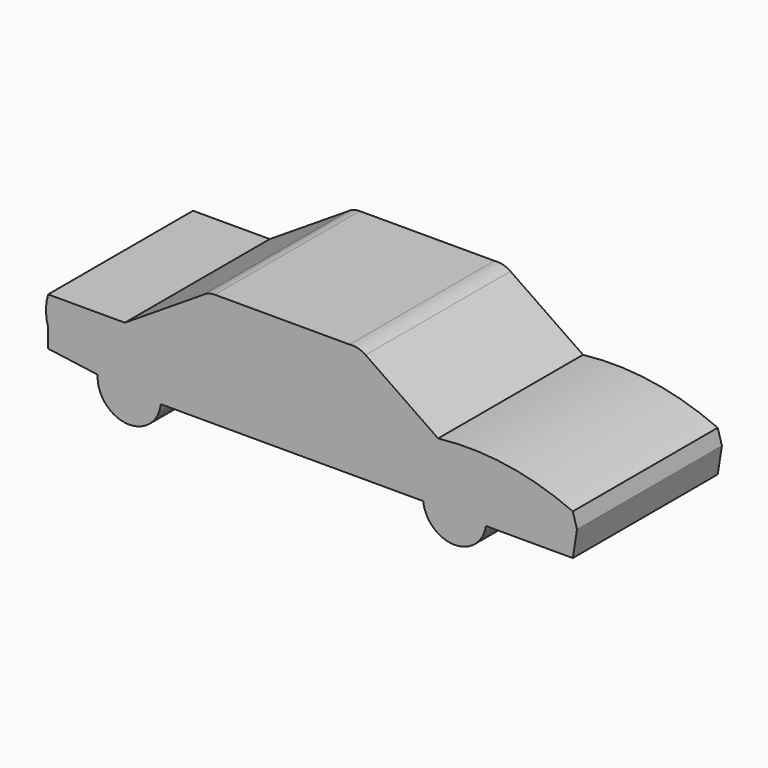
from build123d import *

# Parameters (mm, degrees)
F1_DEPTH = 33


with BuildPart() as f1:
    # F0 (on Front) → F1 (new body)
    with BuildSketch(Plane.XZ):
        with BuildLine():
            Line((0, 0), (53.250462, 0))
            Line((53.250462, 0), (26.834896, 18.175164))
            ThreePointArc((26.834896, 18.175164), (24.032478, 19.439506), (20.964772, 19.642696))
            Line((20.964772, 19.642696), (0, 19.642696))
            Line((0, 19.642696), (0, 0))
        make_face()
        with BuildLine():
            Line((40.881537, -12.428519), (53.250462, 0))
            Line((53.250462, 0), (0, 0))
            Line((0, 0), (0, -21.872539))
            Line((0, -21.872539), (37.131179, -21.872539))
            ThreePointArc((37.131179, -21.872539), (39.914753, -17.511266), (40.881537, -12.428519))
        make_face()
        with BuildLine():
            ThreePointArc((102.331229, -7.44311), (78.288954, -0.436962), (53.250462, 0))
            Line((53.250462, 0), (40.881537, -12.428519))
            ThreePointArc((40.881537, -12.428519), (39.914753, -17.511266), (37.131179, -21.872539))
            Line((37.131179, -21.872539), (47.805394, -21.872539))
            ThreePointArc((47.805394, -21.872539), (58.662919, -9.104587), (70.828642, -20.632885))
            ThreePointArc((70.828642, -20.632885), (70.793542, -21.532446), (70.688458, -22.426536))
            Line((70.688458, -22.426536), (102.331229, -22.426536))
            Line((102.331229, -22.426536), (103.862944, -12.71904))
            Line((103.862944, -12.71904), (102.331229, -7.44311))
        make_face()
        Polygon((0, -21.872539), (0, 0), (-34.451738, 0), (-30.538321, -21.872539), align=None)
        with BuildLine():
            Line((-34.451738, 0), (0, 0))
            Line((0, 0), (0, 19.642696))
            Line((0, 19.642696), (-28.115999, 19.642696))
            ThreePointArc((-28.115999, 19.642696), (-30.540046, 19.222817), (-32.681651, 18.012105))
            Line((-32.681651, 18.012105), (-60.890865, 0))
            Line((-60.890865, 0), (-34.451738, 0))
        make_face()
        with BuildLine():
            Line((-30.538321, -21.872539), (-34.451738, 0))
            Line((-34.451738, 0), (-60.890865, 0))
            Line((-60.890865, 0), (-88.844784, 0))
            ThreePointArc((-88.844784, 0), (-89.626398, -5.317535), (-88.844784, -10.63507))
            Line((-88.844784, -10.63507), (-88.844784, -17.421953))
            Line((-88.844784, -17.421953), (-70.805212, -19.897746))
            ThreePointArc((-70.805212, -19.897746), (-58.915888, -9.093747), (-47.738646, -20.632885))
            ThreePointArc((-47.738646, -20.632885), (-47.755345, -21.25361), (-47.805394, -21.872539))
            Line((-47.805394, -21.872539), (-30.538321, -21.872539))
        make_face()
        with BuildLine():
            ThreePointArc((70.828642, -20.632885), (58.662919, -9.104587), (47.805394, -21.872539))
            ThreePointArc((47.805394, -21.872539), (59.004222, -32.174501), (70.688458, -22.426536))
            ThreePointArc((70.688458, -22.426536), (70.793542, -21.532446), (70.828642, -20.632885))
        make_face()
        with BuildLine():
            ThreePointArc((-70.805212, -19.897746), (-60.271278, -32.135561), (-47.805394, -21.872539))
            ThreePointArc((-47.805394, -21.872539), (-47.755345, -21.25361), (-47.738646, -20.632885))
            ThreePointArc((-47.738646, -20.632885), (-58.915888, -9.093747), (-70.805212, -19.897746))
        make_face()
    extrude(amount=F1_DEPTH)

    # F2: F1 across plane


with BuildPart() as f1_1:
    add(f1.part)
    add(f1.part.mirror(Plane.XZ))


solid = f1_1.part
